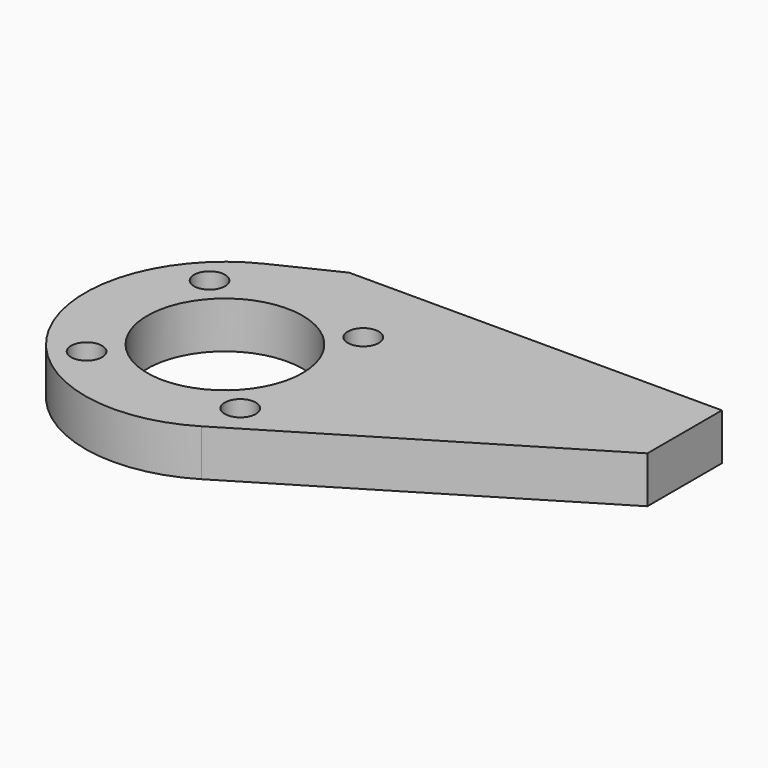
from build123d import *

# Parameters (mm, degrees)
SKETCH_R         = 25
PAD_DEPTH        = 15
HOLE_D           = 5.5
HOLE_DEPTH       = 25
HOLE_CBORE_D     = 10
HOLE_CBORE_DEPTH = 5.4
SKETCH002_R      = 3
POCKET_DEPTH     = 20


with BuildPart() as part:
    # Sketch → Pad (new body)
    with BuildSketch(Plane.XY):
        with BuildLine():
            ThreePointArc((-19.615045, 40.5), (-39.544228, -21.476825), (23.292155, -38.502929))
            Line((120, 20), (23.292155, -38.502929))
            Line((120, 50), (120, 20))
            Line((0, 50), (120, 50))
            Line((-19.615045, 40.5), (0, 50))
        make_face()
        Circle(SKETCH_R, mode=Mode.SUBTRACT)
    extrude(amount=PAD_DEPTH)

    # Hole
    with Locations(Plane.XY.offset(15)):
        with Locations((24.748737, 24.748737), (24.748737, -24.748737), (-24.748737, -24.748737), (-24.748737, 24.748737)):
            CounterBoreHole(HOLE_D / 2, HOLE_CBORE_D / 2, HOLE_CBORE_DEPTH, depth=HOLE_DEPTH)

    # Sketch002 (on Face6 of Hole) → Pocket (cut)
    with BuildSketch(Plane(origin=(0, 50, 0), x_dir=(-1, 0, 0), z_dir=(0, 1, 0))):
        with Locations((-100, 7.5)):
            Circle(SKETCH002_R)
        with Locations((-20, 7.5)):
            Circle(SKETCH002_R)
    extrude(amount=-POCKET_DEPTH, mode=Mode.SUBTRACT)


solid = part.part
